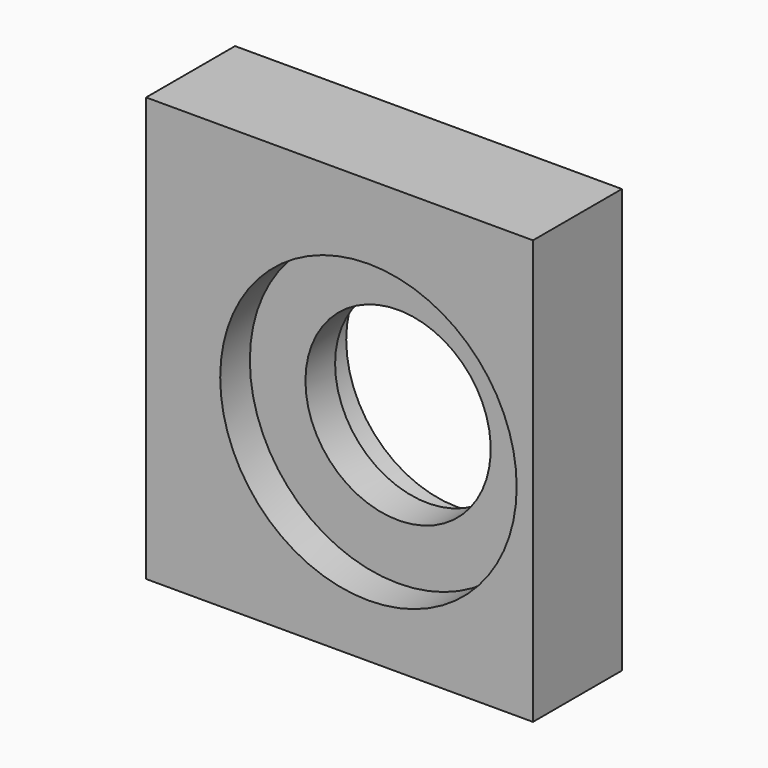
from build123d import *

# Parameters (mm, degrees)
F2_R           = 4.5
F2_W           = 20.8794145286
F2_H           = 3.3811966982
F3_DEPTH       = 6
F4_D           = 10
F4_DEPTH       = 4
F4_CBORE_D     = 12
F4_CBORE_DEPTH = 2
F4_TIP         = 3.0043030951
F6_D           = 9
F6_DEPTH       = 6
F6_CBORE_D     = 16
F6_CBORE_DEPTH = 2
F6_TIP         = 2.7038727856


with BuildPart() as f3:
    # F2 (on face) → F3 (new body)
    with BuildSketch(Plane.XZ):
        with BuildLine():
            Line((-74.1205854714, 17), (-93, 17))
            ThreePointArc((-93, 17), (-94.4142135624, 16.4142135624), (-95, 15))
            Line((-95, 15), (-95, 2.5))
            Line((-95, 2.5), (-74.1205854714, 2.5))
            Line((-74.1205854714, 2.5), (-74.1205854714, 17))
        make_face()
        with Locations((-83, 10)):
            Circle(F2_R, mode=Mode.SUBTRACT)
        Polygon((-95, 17), (-93, 17), (-74.1205854714, 17), (-74.1205854714, 22), (-95, 22), align=None)
        with Locations((-84.5602927357, 0.8094016509)):
            Rectangle(F2_W, F2_H)
        with Locations((-83, 10)):
            Circle(F2_R)
        with BuildLine():
            ThreePointArc((-95, 15), (-94.4142135624, 16.4142135624), (-93, 17))
            Line((-93, 17), (-95, 17))
            Line((-95, 17), (-95, 15))
        make_face()
    extrude(amount=F3_DEPTH)

    # F4
    with Locations(Plane(origin=(0, 0, 0), x_dir=(1, 0, 0), z_dir=(0, 1, 0))):
        with Locations((-63, -10), (-83, -10), (-83, 10), (-63, 10)):
            CounterBoreHole(F4_D / 2, F4_CBORE_D / 2, F4_CBORE_DEPTH, depth=F4_DEPTH)
            with Locations((0, 0, -(F4_DEPTH + F4_TIP / 2))):  # 118° drill point
                Cone(0, F4_D / 2, F4_TIP, mode=Mode.SUBTRACT)

    # F6
    with Locations(Plane.XZ.offset(6)):
        with Locations((-83, 10)):
            CounterBoreHole(F6_D / 2, F6_CBORE_D / 2, F6_CBORE_DEPTH, depth=F6_DEPTH)
            with Locations((0, 0, -(F6_DEPTH + F6_TIP / 2))):  # 118° drill point
                Cone(0, F6_D / 2, F6_TIP, mode=Mode.SUBTRACT)


solid = f3.part
